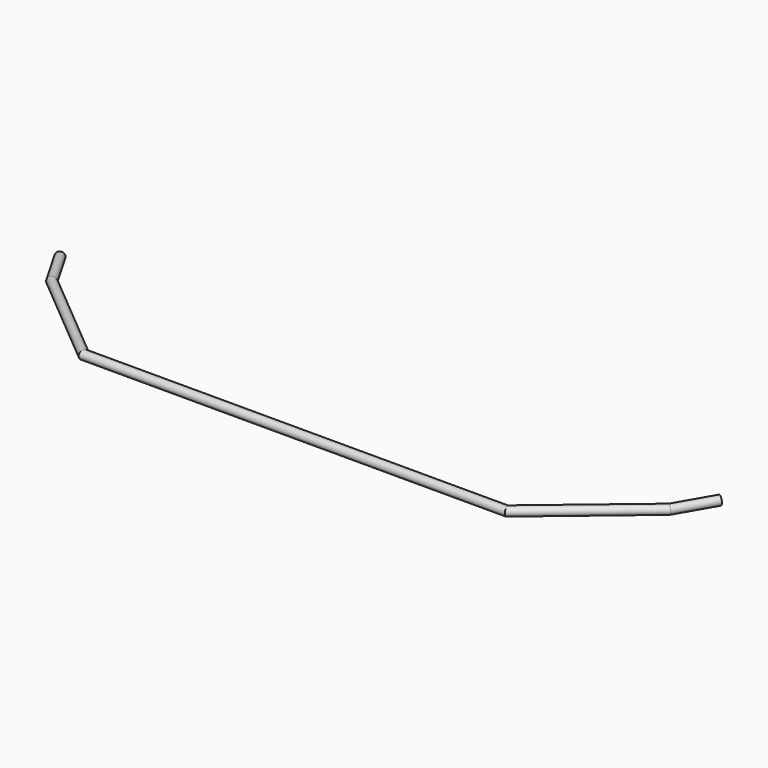
from build123d import *

# Parameters (mm, degrees)
F1_R   = 15.875
F1_R_2 = 12.7


with BuildPart() as f2:
    # F2: sweep along a path in F0
    with BuildLine(Plane.XY) as f2_path:
        Line((-473.1712196139, 425.8647666854), (-396.9712196139, 293.8824951487))
        Line((-396.9712196139, 293.8824951487), (-46.7357002199, 0))
        Line((-46.7357002199, 0), (1477.2642997801, 0))
        Line((1477.2642997801, 0), (1827.4998191741, 293.8824951487))
        Line((1827.4998191741, 293.8824951487), (1903.6998191741, 425.8647666854))
    # F1 (on Right) → F2 (sweep)
    with BuildSketch(Plane.YZ):
        Circle(F1_R)
        Circle(F1_R_2, mode=Mode.SUBTRACT)
    sweep(path=f2_path.line, transition=Transition.RIGHT)


solid = f2.part
